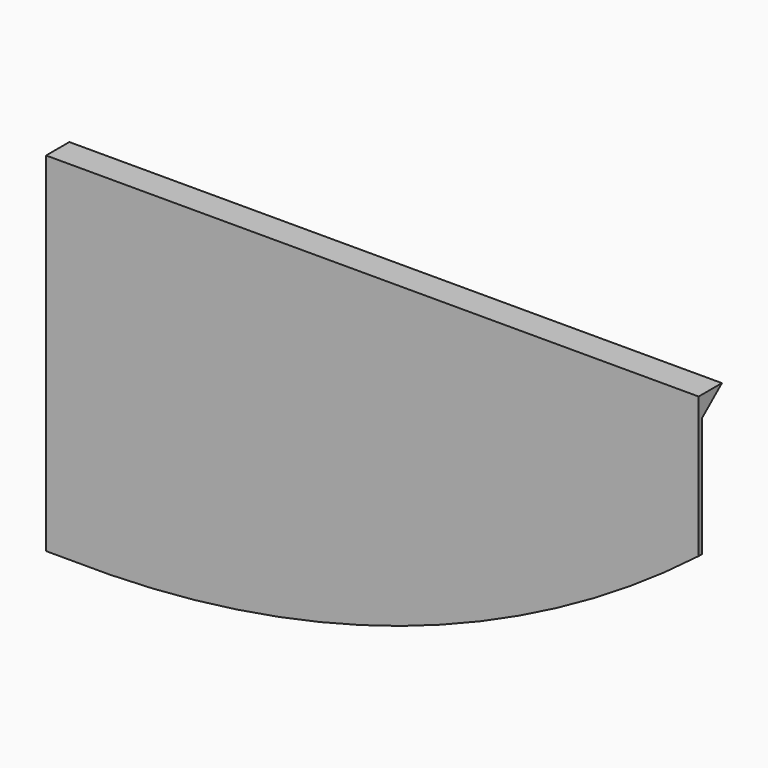
from build123d import *

# Parameters (mm, degrees)
F1_DEPTH = 2.54
F2_W     = 398.78
F2_H     = 12.7
F3_DEPTH = 15.24
F5_DEPTH = 406.4


with BuildPart() as f1:
    # F0 (on Front) → F1 (new body)
    with BuildSketch(Plane.XZ):
        with BuildLine():
            Line((210.516836579, -71.3362430625), (-188.263163421, -71.3362430625))
            Line((-188.263163421, -71.3362430625), (-188.263163421, -139.4082430625))
            Line((-188.263163421, -139.4082430625), (-188.263163421, -284.1882430625))
            Line((-188.263163421, -284.1882430625), (-172.261163421, -284.1882430625))
            Line((-172.261163421, -284.1882430625), (-149.3573673049, -284.1882430625))
            ThreePointArc((-149.3573673049, -284.1882430625), (40.8389414751, -249.7592973406), (210.516836579, -157.1882430625))
            Line((210.516836579, -157.1882430625), (210.516836579, -71.3362430625))
        make_face()
    extrude(amount=F1_DEPTH)

    # F2 (on face) → F3 (join)
    with BuildSketch(Plane(origin=(0, 0, 0), x_dir=(-1, 0, 0), z_dir=(0, 1, 0))):
        with Locations((-11.126836579, -77.6862430625)):
            Rectangle(F2_W, F2_H)
    extrude(amount=F3_DEPTH)

    # F4 (on face) → F5 (cut)
    with BuildSketch(Plane.YZ.offset(210.516836579)):
        Polygon((15.24, -71.3362430625), (0, -84.0362430625), (15.24, -84.0362430625), align=None)
    extrude(amount=-F5_DEPTH, mode=Mode.SUBTRACT)


solid = f1.part
